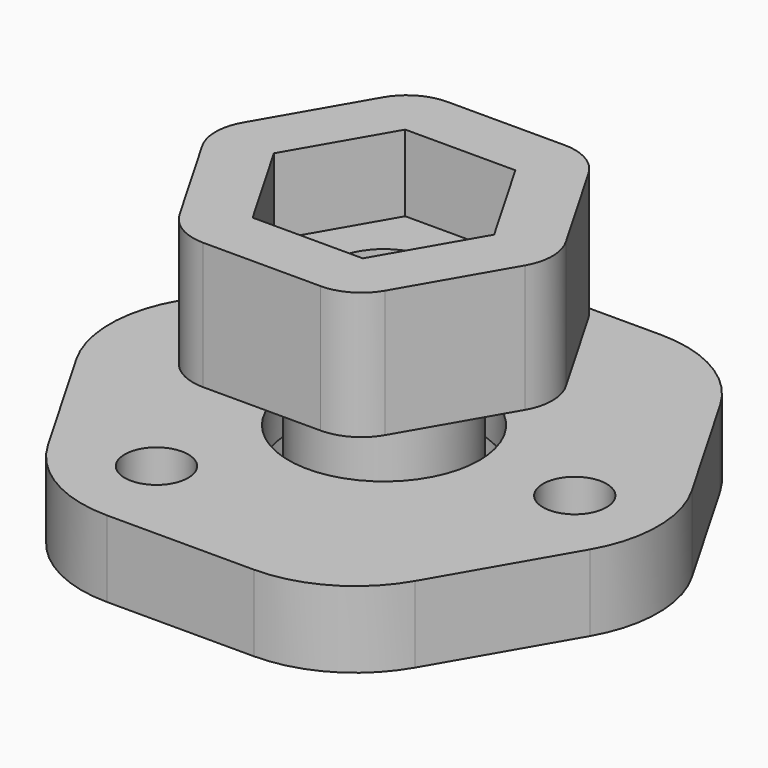
from build123d import *

# Parameters (mm, degrees)
F0_R      = 1.25
F0_R_2    = 4.25
F0_R_3    = 3.75
F1_DEPTH  = 3
F2_DEPTH  = 1.5
F3_R      = 5
F4_R      = 3.1
F5_DEPTH  = 4.5
F7_DEPTH  = 5
F8_R      = 2.1
F9_DEPTH  = 3
F10_DEPTH = 11.001
F11_R     = 2


with BuildPart() as f1:
    # F0 (on Top) → F1 (new body)
    with BuildSketch(Plane.XY):
        Polygon((5.773503, 10), (-5.773503, 10), (-11.547005, 0), (-5.773503, -10), (5.773503, -10), (11.547005, 0), align=None)
        with Locations((-3.75, -6.495191)):
            Circle(F0_R, mode=Mode.SUBTRACT)
        with Locations((-3.75, 6.495191)):
            Circle(F0_R, mode=Mode.SUBTRACT)
        Circle(F0_R_2, mode=Mode.SUBTRACT)
        with Locations((7.5, 0)):
            Circle(F0_R, mode=Mode.SUBTRACT)
        Circle(F0_R_2)
        Circle(F0_R_3, mode=Mode.SUBTRACT)
    extrude(amount=F1_DEPTH)

    # F0 (on Top) → F2 (cut)
    with BuildSketch(Plane.XY):
        Circle(F0_R_2)
        Circle(F0_R_3, mode=Mode.SUBTRACT)
    extrude(amount=F2_DEPTH, mode=Mode.SUBTRACT)

    # F3
    f3_edges = [f1.edges().sort_by_distance(p)[0] for p in [
        (5.773503, -10, 1.5),
        (11.547005, 0, 1.5),
        (-5.773503, -10, 1.5),
        (-11.547005, 0, 1.5),
        (-5.773503, 10, 1.5),
        (5.773503, 10, 1.5),
    ]]
    fillet(f3_edges, radius=F3_R)


with BuildPart() as f5:
    # F4 (on face) → F5 (new body)
    with BuildSketch(Plane(origin=(0, 0, 1.5), x_dir=(1, 0, 0), z_dir=(0, 0, -1))):
        Circle(F4_R)
    extrude(amount=-F5_DEPTH)


with BuildPart() as f7:
    # F6 (on face) → F7 (new body)
    with BuildSketch(Plane.XY.offset(6)):
        Polygon((3.464102, 6), (-3.464102, 6), (-6.928203, 0), (-3.464102, -6), (3.464102, -6), (6.928203, 0), align=None)
    extrude(amount=F7_DEPTH)

    # F8 (on face) → F9 (cut)
    with BuildSketch(Plane.XY.offset(11)):
        Polygon((2.165064, 3.75), (-2.165064, 3.75), (-4.330127, 0), (-2.165064, -3.75), (2.165064, -3.75), (4.330127, 0), align=None)
        Circle(F8_R, mode=Mode.SUBTRACT)
        Circle(F8_R)
    extrude(amount=-F9_DEPTH, mode=Mode.SUBTRACT)


with BuildPart() as f10_tool:
    # F8 (on face) → F10 (new body, through all)
    with BuildSketch(Plane.XY.offset(11)):
        Circle(F8_R)
    extrude(amount=-F10_DEPTH)


with BuildPart() as f5_1:
    add(f5.part)

    # F10: cut by f10_tool
    add(f10_tool.part, mode=Mode.SUBTRACT)


with BuildPart() as f7_1:
    add(f7.part)

    # F10: cut by f10_tool
    add(f10_tool.part, mode=Mode.SUBTRACT)

    # F11
    f11_edges = [f7_1.edges().sort_by_distance(p)[0] for p in [
        (6.928203, 0, 8.5),
        (3.464102, -6, 8.5),
        (-3.464102, -6, 8.5),
        (3.464102, 6, 8.5),
        (-3.464102, 6, 8.5),
        (-6.928203, 0, 8.5),
    ]]
    fillet(f11_edges, radius=F11_R)


solid = Compound([f1.part, f5_1.part, f7_1.part])
